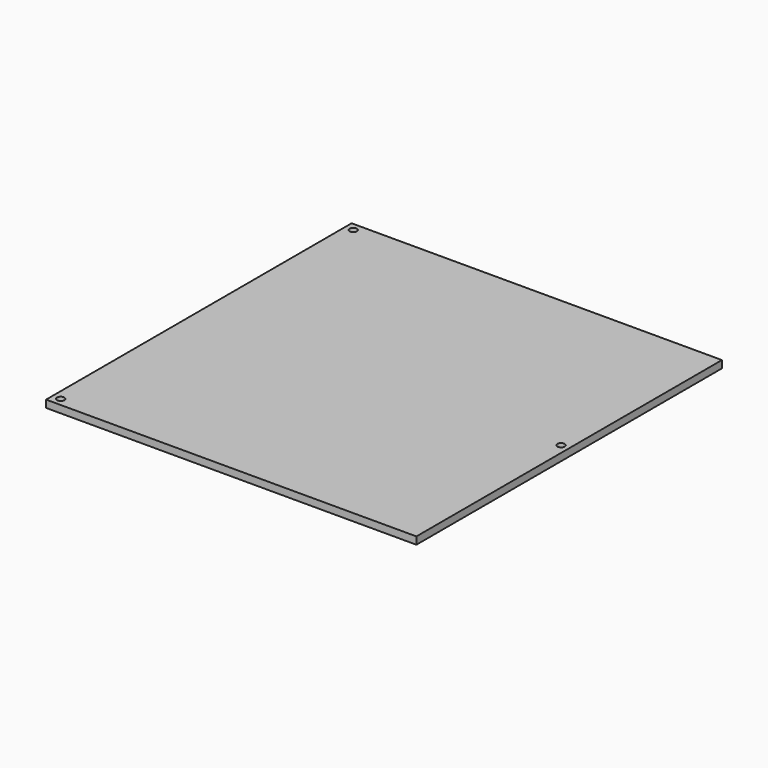
from build123d import *

# Parameters (mm, degrees)
SKETCH013_W  = 320
SKETCH013_H  = 330
SKETCH013_R  = 3.175
PAD006_DEPTH = 6.35


with BuildPart() as part:
    # Sketch013 → Pad006 (new body)
    with BuildSketch(Plane.XY):
        Rectangle(SKETCH013_W, SKETCH013_H)
        with Locations((-153, 158)):
            Circle(SKETCH013_R, mode=Mode.SUBTRACT)
        with Locations((-153, -158)):
            Circle(SKETCH013_R, mode=Mode.SUBTRACT)
        with Locations((153, 0)):
            Circle(SKETCH013_R, mode=Mode.SUBTRACT)
    extrude(amount=PAD006_DEPTH)


solid = part.part
